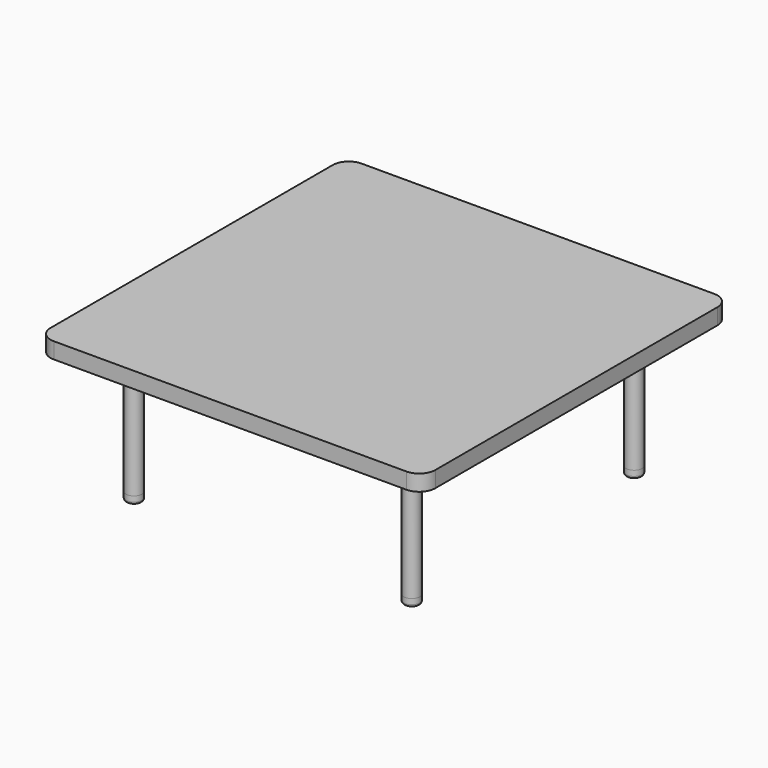
from build123d import *

# Parameters (mm, degrees)
F0_W     = 720
F0_H     = 720
F1_DEPTH = 30
F2_R     = 30
F3_R     = 15
F4_DEPTH = 235
F5_R     = 15
F6_DEPTH = 15
F7_R     = 5


with BuildPart() as f1:
    # F0 (on Top) → F1 (new body)
    with BuildSketch(Plane.XY):
        Rectangle(F0_W, F0_H)
    extrude(amount=F1_DEPTH)

    # F2
    f2_edges = [f1.edges().sort_by_distance(p)[0] for p in [
        (-360, -360, 15),
        (360, -360, 15),
        (360, 360, 15),
        (-360, 360, 15),
    ]]
    fillet(f2_edges, radius=F2_R)


with BuildPart() as f4:
    # F3 (on face) → F4 (new body)
    with BuildSketch(Plane(origin=(0, 0, 0), x_dir=(1, 0, 0), z_dir=(0, 0, -1))):
        with Locations((260, 260)):
            Circle(F3_R)
        with Locations((-260, 260)):
            Circle(F3_R)
        with Locations((-260, -260)):
            Circle(F3_R)
        with Locations((260, -260)):
            Circle(F3_R)
    extrude(amount=F4_DEPTH)


with BuildPart() as f6:
    # F5 (on face) → F6 (new body)
    with BuildSketch(Plane(origin=(0, 0, -235), x_dir=(1, 0, 0), z_dir=(0, 0, -1))):
        with Locations((-260, 260)):
            Circle(F5_R)
        with Locations((260, 260)):
            Circle(F5_R)
        with Locations((260, -260)):
            Circle(F5_R)
        with Locations((-260, -260)):
            Circle(F5_R)
    extrude(amount=F6_DEPTH)

    # F7
    f7_edges = [f6.edges().sort_by_distance(p)[0] for p in [
        (-275, -260, -250),
        (-275, 260, -250),
        (245, 260, -250),
        (245, -260, -250),
    ]]
    fillet(f7_edges, radius=F7_R)


solid = Compound([f1.part, f4.part, f6.part])
